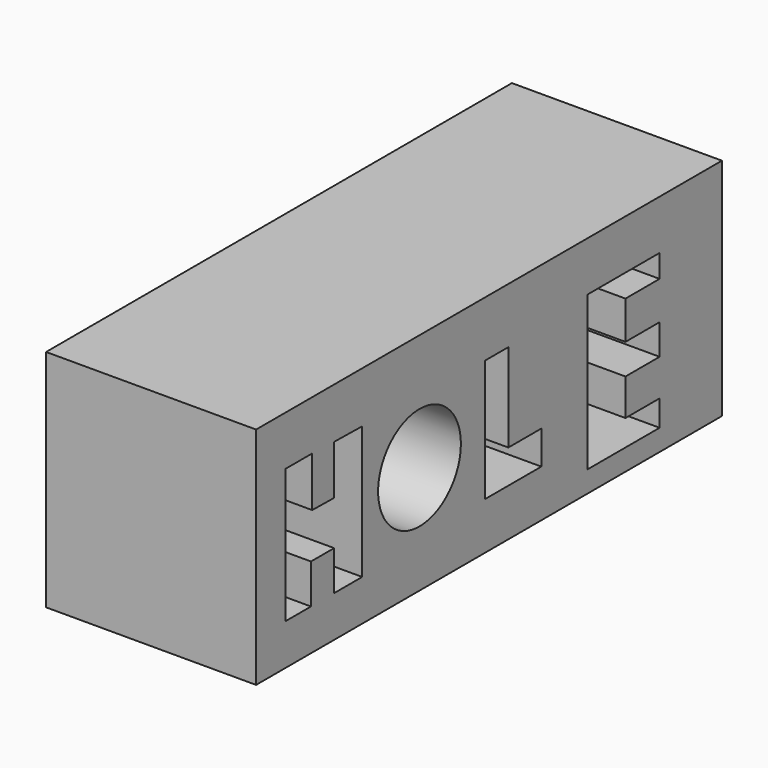
from build123d import *

# Parameters (mm, degrees)
F0_W     = 70.423553
F0_H     = 27.192339
F1_DEPTH = 25.4
F2_R     = 6.257211
F3_DEPTH = 38.1


with BuildPart() as f1:
    # F0 (on Right) → F1 (new body)
    with BuildSketch(Plane.YZ):
        with Locations((8.756856, -13.59617)):
            Rectangle(F0_W, F0_H)
    extrude(amount=F1_DEPTH)

    # F2 (on Right) → F3 (cut)
    with BuildSketch(Plane.YZ):
        with Locations((-1.751371, -14.103145)):
            Circle(F2_R)
        Polygon((-17.974596, -5.991532), (-22.030404, -5.991532), (-22.030404, -22.214757), (-18.158952, -22.214757), (-18.158952, -17.421532), (-14.656209, -17.421532), (-14.656209, -22.214757), (-10.416049, -22.214757), (-10.416049, -6.175887), (-14.656209, -6.106754), (-14.656209, -12.075242), (-17.974596, -12.023392), align=None)
        Polygon((11.687156, -6.728951), (8.184274, -6.728951), (8.184274, -21.47734), (16.664935, -21.47734), (16.664935, -17.421532), (11.687156, -17.421532), align=None)
        Polygon((34.548074, -5.991532), (23.670701, -5.991532), (23.670701, -24.611371), (34.548074, -24.611371), (34.548074, -21.47734), (29.38593, -21.47734), (29.38593, -17.052824), (34.548074, -17.052824), (34.548074, -13.365728), (29.38593, -13.365728), (29.38593, -8.756856), (34.548074, -8.756856), align=None)
    extrude(amount=F3_DEPTH, mode=Mode.SUBTRACT)


solid = f1.part
